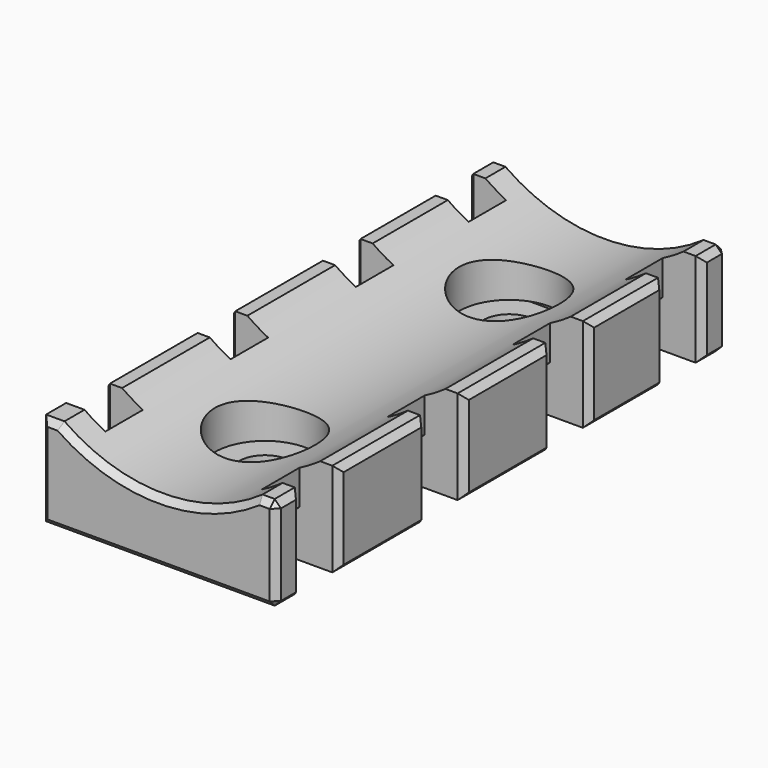
from build123d import *

# Parameters (mm, degrees)
SKETCH_W                                   = 15
SKETCH_H                                   = 36
PAD_DEPTH                                  = 6
SKETCH001_W                                = 20
SKETCH001_H                                = 3
POCKET_DEPTH                               = 2
SKETCH002_W                                = 3
SKETCH002_H                                = 3
POCKET001_DEPTH                            = 6.001
SKETCH003_R                                = 11
POCKET002_DEPTH                            = 36.001
SKETCH004_R                                = 1.65
POCKET003_DEPTH                            = 6.001
SKETCH005_R                                = 3.2
POCKET004_DEPTH                            = 4.001
CHAMFER004013007011015006009007001023_SIZE = 0.4
CHAMFER004013007011015006009007001024_SIZE = 1


with BuildPart() as part:
    # Sketch → Pad (new body)
    with BuildSketch(Plane.XY):
        Rectangle(SKETCH_W, SKETCH_H)
    extrude(amount=PAD_DEPTH)

    # Sketch001 (on Face5 of Pad) → Pocket (cut)
    with BuildSketch(Plane(origin=(0, 0, 0), x_dir=(1, 0, 0), z_dir=(0, 0, -1))):
        with Locations((0, 14.5)):
            Rectangle(SKETCH001_W, SKETCH001_H)
        with Locations((0, 4.5)):
            Rectangle(SKETCH001_W, SKETCH001_H)
        with Locations((0, -5.5)):
            Rectangle(SKETCH001_W, SKETCH001_H)
        with Locations((0, -14.5)):
            Rectangle(SKETCH001_W, SKETCH001_H)
    extrude(amount=-POCKET_DEPTH, mode=Mode.SUBTRACT)

    # Sketch002 (on Face10 of Pocket) → Pocket001 (cut, through all)
    with BuildSketch(Plane(origin=(0, 0, 0), x_dir=(1, 0, 0), z_dir=(0, 0, -1))):
        with Locations((-6.5, 14.5)):
            Rectangle(SKETCH002_W, SKETCH002_H)
        with Locations((6.5, 14.5)):
            Rectangle(SKETCH002_W, SKETCH002_H)
        with Locations((-6.5, 4.5)):
            Rectangle(SKETCH002_W, SKETCH002_H)
        with Locations((6.5, 4.5)):
            Rectangle(SKETCH002_W, SKETCH002_H)
        with Locations((-6.5, -5.5)):
            Rectangle(SKETCH002_W, SKETCH002_H)
        with Locations((6.5, -5.5)):
            Rectangle(SKETCH002_W, SKETCH002_H)
        with Locations((-6.5, -14.5)):
            Rectangle(SKETCH002_W, SKETCH002_H)
        with Locations((6.5, -14.5)):
            Rectangle(SKETCH002_W, SKETCH002_H)
    extrude(amount=-POCKET001_DEPTH, mode=Mode.SUBTRACT)

    # Sketch003 (on Face26 of Pocket001) → Pocket002 (cut, through all)
    with BuildSketch(Plane.XZ.offset(18)):
        with Locations((0, 15)):
            Circle(SKETCH003_R)
    extrude(amount=-POCKET002_DEPTH, mode=Mode.SUBTRACT)

    # Sketch004 (on Face77 of Pocket002) → Pocket003 (cut, through all)
    with BuildSketch(Plane(origin=(0, 0, 0), x_dir=(1, 0, 0), z_dir=(0, 0, -1))):
        with Locations((0, 9.5)):
            Circle(SKETCH004_R)
        with Locations((0, -10)):
            Circle(SKETCH004_R)
    extrude(amount=-POCKET003_DEPTH, mode=Mode.SUBTRACT)

    # Sketch005 (on Face74 of Pocket003) → Pocket004 (cut, through all)
    with BuildSketch(Plane(origin=(0, 0, 2), x_dir=(1, 0, 0), z_dir=(0, 0, -1))):
        with Locations((0, 9.5)):
            Circle(SKETCH005_R)
        with Locations((0, -10)):
            Circle(SKETCH005_R)
    extrude(amount=-POCKET004_DEPTH, mode=Mode.SUBTRACT)

    # Chamfer004013007011015006009007001023
    chamfer004013007011015006009007001023_edges = [part.edges().sort_by_distance(p)[0] for p in [
        (0, -18, 0),
        (-7.5, -18, 3),
        (-6.912278, -18, 6),
        (0, -18, 4),
        (6.912278, -18, 6),
        (7.5, -18, 3),
        (-7.5, -13, 1),
        (-7.5, -9.5, 0),
        (-7.5, -6, 1),
        (-7.5, -6, 4),
        (-7.5, -9.5, 6),
        (-7.5, -13, 4),
        (-7.5, -3, 4),
        (-7.5, -3, 1),
        (-7.5, 0.5, 0),
        (-7.5, 4, 1),
        (-7.5, 4, 4),
        (-7.5, 0.5, 6),
        (-7.5, 7, 4),
        (-7.5, 7, 1),
        (-7.5, 10, 0),
        (-7.5, 13, 1),
        (-7.5, 13, 4),
        (-7.5, 10, 6),
        (-7.5, 16, 4),
        (-7.5, 16, 1),
        (-7.5, 17, 0),
        (-7.5, 18, 3),
        (-7.5, 17, 6),
        (0, 18, 0),
        (7.5, 18, 3),
        (6.912278, 18, 6),
        (0, 18, 4),
        (-6.912278, 18, 6),
        (7.5, -16, 4),
        (7.5, -16, 1),
        (7.5, -17, 0),
        (7.5, -17, 6),
        (7.5, -6, 4),
        (7.5, -6, 1),
        (7.5, -9.5, 0),
        (7.5, -13, 1),
        (7.5, -13, 4),
        (7.5, -9.5, 6),
        (7.5, 4, 4),
        (7.5, 4, 1),
        (7.5, 0.5, 0),
        (7.5, -3, 1),
        (7.5, -3, 4),
        (7.5, 0.5, 6),
        (7.5, 13, 1),
        (7.5, 10, 0),
        (7.5, 7, 1),
        (7.5, 7, 4),
        (7.5, 10, 6),
        (7.5, 13, 4),
        (7.5, 17, 0),
        (7.5, 16, 1),
        (7.5, 16, 4),
        (7.5, 17, 6),
    ]]
    chamfer(chamfer004013007011015006009007001023_edges, length=CHAMFER004013007011015006009007001023_SIZE)

    # Chamfer004013007011015006009007001024
    chamfer004013007011015006009007001024_edges = [part.edges().sort_by_distance(p)[0] for p in [
        (-5, -14.5, 2),
        (5, -14.5, 2),
        (5, -4.5, 2),
        (-5, -4.5, 2),
        (-5, 5.5, 2),
        (5, 5.5, 2),
        (5, 14.5, 2),
        (-5, 14.5, 2),
    ]]
    chamfer(chamfer004013007011015006009007001024_edges, length=CHAMFER004013007011015006009007001024_SIZE)


solid = part.part
